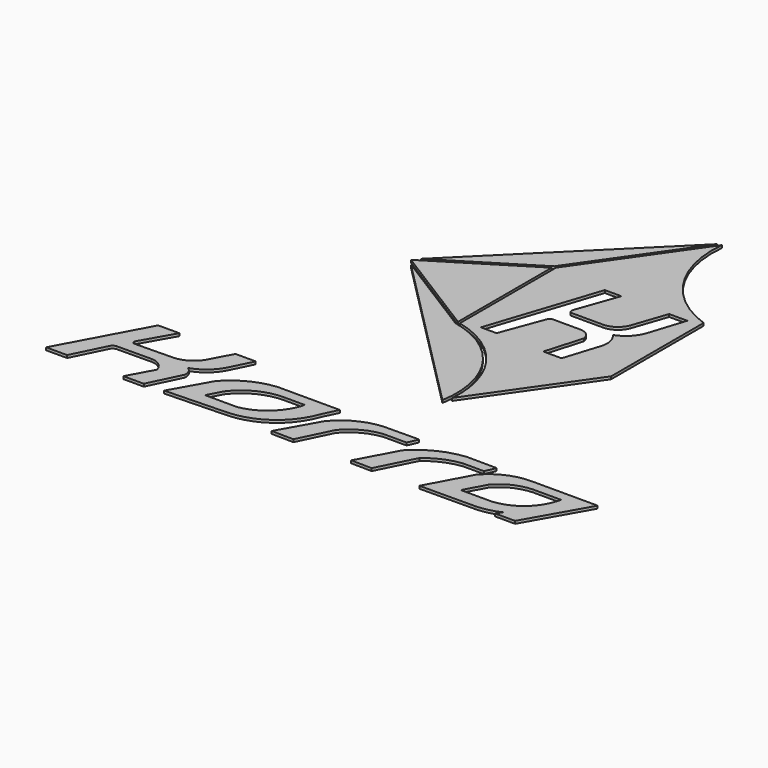
from build123d import *

# Parameters (mm, degrees)
F1_DEPTH = 0.2


with BuildPart() as f1:
    # F0 (on Top) → F1 (new body)
    with BuildSketch(Plane.XY):
        with BuildLine():
            Line((0.3221887287, -1.2390491494), (5.9381237452, 6.8029700547))
            Line((5.9381237452, 6.8029700547), (5.9381237452, 15.5676616906))
            ThreePointArc((5.9381237452, 15.5676616906), (1.7723507567, 18.8624852196), (0.551509194, 24.0315347027))
            Line((0.551509194, 24.0315347027), (-5.3026779883, 15.6483383863))
            Line((-5.3026779883, 15.6483383863), (-5.3026779883, 6.5205997522))
            ThreePointArc((-5.3026779883, 6.5205997522), (-1.0395342394, 3.6923760496), (0.3221887287, -1.2390491494))
        make_face()
        with BuildLine():
            Line((-4.0039531887, 6.8868417293), (-1.2578062015, 15.2005720884))
            Line((-1.2578062015, 15.2005720884), (0, 15.2005720884))
            Line((0, 15.2005720884), (-1.1304413683, 12.0364315361))
            ThreePointArc((-1.1304413683, 12.0364315361), (-1.1332673696, 11.8427166471), (-1.0282194708, 11.6799334064))
            Line((-1.0282194708, 11.6799334064), (1.4081238769, 11.6799334064))
            ThreePointArc((1.4081238769, 11.6799334064), (2.2214482851, 11.9320780556), (2.7495124377, 12.6000763848))
            Line((2.7495124377, 12.6000763848), (3.6309957504, 15.181590803))
            Line((3.6309957504, 15.181590803), (5.0107096322, 15.181590803))
            Line((5.0107096322, 15.181590803), (4.1420012712, 12.4715473503))
            ThreePointArc((4.1420012712, 12.4715473503), (3.5967677723, 11.5672258478), (2.7040650602, 11.0031701624))
            ThreePointArc((2.7040650602, 11.0031701624), (3.0871173523, 10.2828780548), (3.0534872785, 9.4677591696))
            Line((3.0534872785, 9.4677591696), (2.2027201485, 6.7769880407))
            Line((2.2027201485, 6.7769880407), (0.820223242, 6.7769880407))
            Line((0.820223242, 6.7769880407), (1.6406058567, 9.589375928))
            ThreePointArc((1.6406058567, 9.589375928), (1.3551604564, 10.1310381804), (0.782554911, 10.3478329256))
            Line((0.782554911, 10.3478329256), (-1.3016803423, 10.3478329256))
            ThreePointArc((-1.3016803423, 10.3478329256), (-1.4779448579, 10.2890176936), (-1.5963046791, 10.1457718779))
            Line((-1.5963046791, 10.1457718779), (-2.8115476016, 6.8868417293))
            Line((-2.8115476016, 6.8868417293), (-4.0039531887, 6.8868417293))
        make_face(mode=Mode.SUBTRACT)
    extrude(amount=-F1_DEPTH)


with BuildPart() as f1b:
    # F0 (on Top) → F1, piece 2 (new body)
    with BuildSketch(Plane.XY):
        with BuildLine():
            ThreePointArc((0.0455915557, -1.8117811989), (-1.0759408053, 3.3961031617), (-5.5026779883, 6.3598663546))
            Line((-5.5026779883, 6.3598663546), (-12.2704175663, 10.5954582346))
            Line((-12.2704175663, 10.5954582346), (0.0455915557, -1.8117811989))
        make_face()
    extrude(amount=-F1_DEPTH)


with BuildPart() as f1c:
    # F0 (on Top) → F1, piece 3 (new body)
    with BuildSketch(Plane.XY):
        Polygon((-5.5026779883, 6.5958060592), (-5.5026779883, 15.4760383667), (-12.635980278, 11.0601854738), align=None)
    extrude(amount=-F1_DEPTH)


with BuildPart() as f1d:
    # F0 (on Top) → F1, piece 4 (new body)
    with BuildSketch(Plane.XY):
        Polygon((-12.2601570899, 11.528058606), (-5.5026779883, 15.7112590969), (0.2434776577, 23.9397542483), align=None)
    extrude(amount=-F1_DEPTH)


with BuildPart() as f1e:
    # F0 (on Top) → F1, piece 5 (new body)
    with BuildSketch(Plane.XY):
        with BuildLine():
            Line((15.6719795434, -6.6372910397), (10.644714348, -6.6343117505))
            ThreePointArc((10.644714348, -6.6343117505), (8.956874135, -6.9996048306), (7.5723426417, -8.0317463726))
            Line((7.5723426417, -8.0317463726), (5.8395114478, -11.2419195165))
            Line((5.8395114478, -11.2419195165), (10.0254435092, -11.213440448))
            ThreePointArc((10.0254435092, -11.213440448), (10.9668398403, -11.1011779704), (11.8598518893, -10.7828080654))
            Line((11.8598518893, -10.7828080654), (11.5375751629, -11.213440448))
            Line((11.5375751629, -11.213440448), (13.0737610161, -11.213440448))
            Line((13.0737610161, -11.213440448), (15.6719795434, -6.6372910397))
        make_face()
        with BuildLine():
            ThreePointArc((8.9473901317, -8.5692228749), (10.0420664485, -7.7394049699), (11.3752083853, -7.4082757346))
            Line((11.3752083853, -7.4082757346), (13.5249486193, -7.4082757346))
            Line((13.5249486193, -7.4082757346), (13.4377796203, -7.7092619613))
            ThreePointArc((13.4377796203, -7.7092619613), (12.3172915564, -9.3821473425), (10.4513484985, -10.1386494935))
            Line((10.4513484985, -10.1386494935), (8.0999564379, -10.1386494935))
            Line((8.0999564379, -10.1386494935), (8.9473901317, -8.5692228749))
        make_face(mode=Mode.SUBTRACT)
    extrude(amount=-F1_DEPTH)


with BuildPart() as f1f:
    # F0 (on Top) → F1, piece 6 (new body)
    with BuildSketch(Plane.XY):
        with BuildLine():
            Line((7.9989461764, -6.6110268672), (5.7461061515, -6.5913153812))
            ThreePointArc((5.7461061515, -6.5913153812), (3.8269548312, -7.1288721816), (2.2225470748, -8.3112362772))
            Line((2.2225470748, -8.3112362772), (0.6559555881, -11.213440448))
            Line((0.6559555881, -11.213440448), (2.2225470748, -11.2419195165))
            Line((2.2225470748, -11.2419195165), (3.6190801766, -8.4617296234))
            ThreePointArc((3.6190801766, -8.4617296234), (4.7548095867, -7.7476826092), (6.0468981974, -7.386778947))
            Line((6.0468981974, -7.386778947), (7.6567602687, -7.3867780156))
            Line((7.6567602687, -7.3867780156), (7.9989461764, -6.6110268672))
        make_face()
    extrude(amount=-F1_DEPTH)


with BuildPart() as f1g:
    # F0 (on Top) → F1, piece 7 (new body)
    with BuildSketch(Plane.XY):
        with BuildLine():
            ThreePointArc((-2.486287849, -8.7412158027), (-1.3708885374, -7.8295011783), (0, -7.3867780156))
            Line((0, -7.3867780156), (1.7875585472, -7.3867780156))
            Line((1.7875585472, -7.3867780156), (2.1217935719, -6.6148531623))
            Line((2.1217935719, -6.6148531623), (0, -6.6343126819))
            ThreePointArc((0, -6.6343126819), (-2.0490469004, -7.011625802), (-3.7109393161, -8.268237114))
            Line((-3.7109393161, -8.268237114), (-5.3702842035, -11.213440448))
            Line((-5.3702842035, -11.213440448), (-3.7109393161, -11.2419195165))
            Line((-3.7109393161, -11.2419195165), (-2.486287849, -8.7412158027))
        make_face()
    extrude(amount=-F1_DEPTH)


with BuildPart() as f1h:
    # F0 (on Top) → F1, piece 8 (new body)
    with BuildSketch(Plane.XY):
        with BuildLine():
            Line((-3.9036741946, -6.5913149156), (-8.6095463485, -6.5913149156))
            ThreePointArc((-8.6095463485, -6.5913149156), (-10.4468670481, -7.12185676), (-11.9612244889, -8.2897366956))
            Line((-11.9612244889, -8.2897366956), (-13.5733263679, -11.1510875002))
            Line((-13.5733263679, -11.1510875002), (-8.9242989197, -11.0012982041))
            ThreePointArc((-8.9242989197, -11.0012982041), (-6.1667191094, -10.0440713662), (-4.4402293861, -7.6904012822))
            Line((-4.4402293861, -7.6904012822), (-3.9036741946, -6.5913149156))
        make_face()
        with BuildLine():
            ThreePointArc((-5.9883617796, -7.6232668944), (-7.0888461772, -9.2542353693), (-8.8673681021, -10.0956531242))
            Line((-8.8673681021, -10.0956531242), (-11.3260233775, -10.0956531242))
            Line((-11.3260233775, -10.0956531242), (-10.7150869444, -8.9674610645))
            ThreePointArc((-10.7150869444, -8.9674610645), (-9.2870890069, -7.8032245883), (-7.4923196808, -7.3867780156))
            Line((-7.4923196808, -7.3867780156), (-5.9476941824, -7.3867780156))
            Line((-5.9476941824, -7.3867780156), (-5.9883617796, -7.6232668944))
        make_face(mode=Mode.SUBTRACT)
    extrude(amount=-F1_DEPTH)


with BuildPart() as f1i:
    # F0 (on Top) → F1, piece 9 (new body)
    with BuildSketch(Plane.XY):
        with BuildLine():
            ThreePointArc((-14.1671802849, -6.6148531623), (-14.8395201872, -7.2349347814), (-15.7118886709, -7.5097354129))
            Line((-15.7118886709, -7.5097354129), (-18.6945162714, -7.5642843731))
            ThreePointArc((-18.6945162714, -7.5642843731), (-18.8379589434, -7.4818591939), (-18.8768226653, -7.3210508563))
            Line((-18.8768226653, -7.3210508563), (-17.4670927227, -4.8431316391))
            Line((-17.4670927227, -4.8431316391), (-19.0745219588, -4.8431316391))
            Line((-19.0745219588, -4.8431316391), (-22.49625884, -11.1821033061))
            Line((-22.49625884, -11.1821033061), (-20.9010709077, -11.1821033061))
            Line((-20.9010709077, -11.1821033061), (-19.6871310472, -8.7255975232))
            ThreePointArc((-19.6871310472, -8.7255975232), (-19.5357739882, -8.5461370978), (-19.3165130913, -8.4622344002))
            Line((-19.3165130913, -8.4622344002), (-16.7060699314, -8.4407348186))
            ThreePointArc((-16.7060699314, -8.4407348186), (-15.9887854149, -8.68665027), (-15.5837750062, -9.3276947737))
            Line((-15.5837750062, -9.3276947737), (-16.6168492287, -11.213440448))
            Line((-16.6168492287, -11.213440448), (-15.066714026, -11.213440448))
            Line((-15.066714026, -11.213440448), (-13.8961784542, -8.8023440912))
            ThreePointArc((-13.8961784542, -8.8023440912), (-13.9701576636, -8.3385560844), (-14.3026812002, -8.0068930984))
            ThreePointArc((-14.3026812002, -8.0068930984), (-13.3148360087, -7.4882155641), (-12.5773055479, -6.6510098986))
            Line((-12.5773055479, -6.6510098986), (-11.6788372397, -4.8431316391))
            Line((-11.6788372397, -4.8431316391), (-13.2108161934, -4.8431316391))
            Line((-13.2108161934, -4.8431316391), (-14.1671802849, -6.6148531623))
        make_face()
    extrude(amount=-F1_DEPTH)


with BuildPart() as f1b_1:
    # F2: moved
    add(f1b.part)


with BuildPart() as f1i_1:
    # F2: moved
    add(f1i.part)


with BuildPart() as f1h_1:
    # F2: moved
    add(f1h.part)


with BuildPart() as f1g_1:
    # F2: moved
    add(f1g.part)


with BuildPart() as f1c_1:
    # F2: moved
    add(f1c.part)


with BuildPart() as f1d_1:
    # F2: moved
    add(f1d.part)


with BuildPart() as f1_1:
    # F2: moved
    add(f1.part)


with BuildPart() as f1f_1:
    # F2: moved
    add(f1f.part)


with BuildPart() as f1e_1:
    # F2: moved
    add(f1e.part)


solid = Compound([f1b_1.part, f1i_1.part, f1h_1.part, f1g_1.part, f1c_1.part, f1d_1.part, f1_1.part, f1f_1.part, f1e_1.part])
